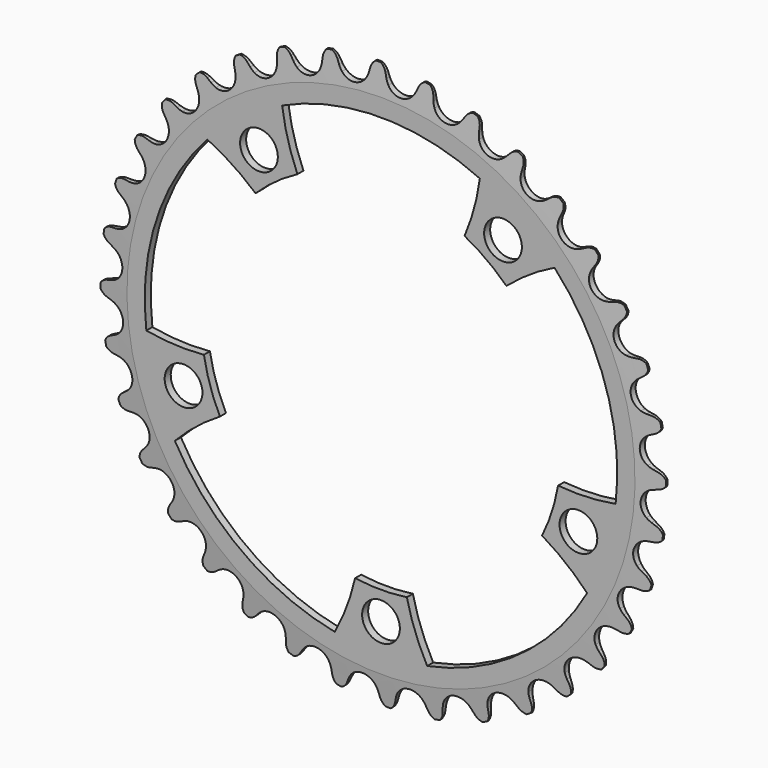
from build123d import *

# Parameters (mm, degrees)
F0_R     = 74.93
F0_R_2   = 5
F3_DEPTH = 2
F4_SIZE2 = 7.62
F4_SIZE  = 0.762
F5_DEPTH = 38.1
F6_ANGLE = 36


with BuildPart() as f3:
    # F0 (on Front) → F3 (new body)
    with BuildSketch(Plane.XZ):
        Circle(F0_R)
        with Locations((-32.328189, -44.495935)):
            Circle(F0_R_2, mode=Mode.SUBTRACT)
        with Locations((32.328189, -44.495935)):
            Circle(F0_R_2, mode=Mode.SUBTRACT)
        with BuildLine():
            ThreePointArc((42.6804, 21.074712), (45.27029, 14.709209), (46.916574, 8.037109))
            ThreePointArc((46.916574, 8.037109), (54.566073, 8.210797), (62.16801, 7.341564))
            ThreePointArc((62.16801, 7.341564), (59.536138, -19.344464), (45.979714, -42.480889))
            ThreePointArc((45.979714, -42.480889), (39.318695, -38.715808), (33.232211, -34.079028))
            ThreePointArc((33.232211, -34.079028), (27.978578, -38.509209), (22.141764, -42.13671))
            ThreePointArc((22.141764, -42.13671), (24.670776, -49.358143), (26.193213, -56.856623))
            ThreePointArc((26.193213, -56.856623), (0, -62.6), (-26.193213, -56.856623))
            ThreePointArc((-26.193213, -56.856623), (-24.670776, -49.358143), (-22.141764, -42.13671))
            ThreePointArc((-22.141764, -42.13671), (-27.978578, -38.509209), (-33.232211, -34.079028))
            ThreePointArc((-33.232211, -34.079028), (-39.318695, -38.715808), (-45.979714, -42.480889))
            ThreePointArc((-45.979714, -42.480889), (-59.536138, -19.344464), (-62.16801, 7.341564))
            ThreePointArc((-62.16801, 7.341564), (-54.566073, 8.210797), (-46.916574, 8.037109))
            ThreePointArc((-46.916574, 8.037109), (-45.27029, 14.709209), (-42.6804, 21.074712))
            ThreePointArc((-42.6804, 21.074712), (-48.971066, 25.430458), (-54.610239, 30.60199))
            ThreePointArc((-54.610239, 30.60199), (-36.795357, 50.644464), (-12.22873, 61.393959))
            ThreePointArc((-12.22873, 61.393959), (-9.052911, 54.432695), (-6.854273, 47.103916))
            ThreePointArc((-6.854273, 47.103916), (0, 47.6), (6.854273, 47.103916))
            ThreePointArc((6.854273, 47.103916), (9.052911, 54.432695), (12.22873, 61.393959))
            ThreePointArc((12.22873, 61.393959), (36.795357, 50.644464), (54.610239, 30.60199))
            ThreePointArc((54.610239, 30.60199), (48.971066, 25.430458), (42.6804, 21.074712))
        make_face(mode=Mode.SUBTRACT)
        with Locations((-52.308108, 16.995935)):
            Circle(F0_R_2, mode=Mode.SUBTRACT)
        with Locations((52.308108, 16.995935)):
            Circle(F0_R_2, mode=Mode.SUBTRACT)
        with Locations((0, 55)):
            Circle(F0_R_2, mode=Mode.SUBTRACT)
    extrude(amount=F3_DEPTH)

    # F4
    f4_edges = [f3.edges().sort_by_distance(p)[0] for p in [
        (-74.93, 0, 0),
        (-74.93, -2, 0),
    ]]
    chamfer(f4_edges, length=F4_SIZE, length2=F4_SIZE2)

    # F2 (on offset) → F5 (intersect)
    with BuildSketch(Plane.XZ.offset(25.4)):
        with BuildLine():
            Line((-3.937069, 71.758516), (-4.39561, 73.003297))
            ThreePointArc((-4.39561, 73.003297), (-5.237676, 74.260305), (-6.56109, 74.9936))
            ThreePointArc((-6.56109, 74.9936), (-7.737063, 74.041637), (-8.348059, 72.657503))
            Line((-8.348059, 72.657503), (-8.583479, 71.352007))
            ThreePointArc((-8.583479, 71.352007), (-8.767631, 70.631307), (-9.052959, 69.944351))
            ThreePointArc((-9.052959, 69.944351), (-11.952458, 67.785755), (-15.415378, 68.822485))
            ThreePointArc((-15.415378, 68.822485), (-15.918452, 69.370425), (-16.337992, 69.984678))
            Line((-16.337992, 69.984678), (-17.00572, 71.130923))
            ThreePointArc((-17.00572, 71.130923), (-18.053271, 72.222612), (-19.483914, 72.714957))
            ThreePointArc((-19.483914, 72.714957), (-20.476715, 71.573252), (-20.838076, 70.104047))
            Line((-20.838076, 70.104047), (-20.843223, 68.777505))
            ThreePointArc((-20.843223, 68.777505), (-20.899429, 68.035776), (-21.061133, 67.309709))
            ThreePointArc((-21.061133, 67.309709), (-23.541746, 64.680415), (-27.132083, 65.100064))
            ThreePointArc((-27.132083, 65.100064), (-27.722662, 65.552322), (-28.242493, 66.084391))
            Line((-28.242493, 66.084391), (-29.09912, 67.097273))
            ThreePointArc((-29.09912, 67.097273), (-30.320326, 67.99047), (-31.814729, 68.226908))
            ThreePointArc((-31.814729, 68.226908), (-32.594192, 66.930149), (-32.694939, 65.420515))
            Line((-32.694939, 65.420515), (-32.469656, 64.113232))
            ThreePointArc((-32.469656, 64.113232), (-32.396208, 63.373012), (-32.429376, 62.629896))
            ThreePointArc((-32.429376, 62.629896), (-34.41573, 59.609793), (-38.024393, 59.399611))
            ThreePointArc((-38.024393, 59.399611), (-38.684534, 59.742445), (-39.28886, 60.176163))
            Line((-39.28886, 60.176163), (-40.308358, 61.024905))
            ThreePointArc((-40.308358, 61.024905), (-41.666113, 61.692473), (-43.17887, 61.665818))
            ThreePointArc((-43.17887, 61.665818), (-43.721312, 60.253407), (-43.558383, 58.749214))
            Line((-43.558383, 58.749214), (-43.109515, 57.500911))
            ThreePointArc((-43.109515, 57.500911), (-42.908645, 56.784691), (-42.812268, 56.047105))
            ThreePointArc((-42.812268, 56.047105), (-44.24401, 52.727957), (-47.761352, 51.894331))
            ThreePointArc((-47.761352, 51.894331), (-48.470996, 52.117324), (-49.141455, 52.439513))
            Line((-49.141455, 52.439513), (-50.292847, 53.098327))
            ThreePointArc((-50.292847, 53.098327), (-51.745897, 53.519981), (-53.231043, 53.231043))
            ThreePointArc((-53.231043, 53.231043), (-53.519981, 51.745897), (-53.098327, 50.292847))
            Line((-53.098327, 50.292847), (-52.439513, 49.141455))
            ThreePointArc((-52.439513, 49.141455), (-52.117324, 48.470996), (-51.894331, 47.761352))
            ThreePointArc((-51.894331, 47.761352), (-52.727957, 44.24401), (-56.047105, 42.812268))
            ThreePointArc((-56.047105, 42.812268), (-56.784691, 42.908645), (-57.500911, 43.109515))
            Line((-57.500911, 43.109515), (-58.749214, 43.558383))
            ThreePointArc((-58.749214, 43.558383), (-60.253407, 43.721312), (-61.665818, 43.17887))
            ThreePointArc((-61.665818, 43.17887), (-61.692473, 41.666113), (-61.024905, 40.308358))
            Line((-61.024905, 40.308358), (-60.176163, 39.28886))
            ThreePointArc((-60.176163, 39.28886), (-59.742445, 38.684534), (-59.399611, 38.024393))
            ThreePointArc((-59.399611, 38.024393), (-59.609793, 34.41573), (-62.629896, 32.429376))
            ThreePointArc((-62.629896, 32.429376), (-63.373012, 32.396208), (-64.113232, 32.469656))
            Line((-64.113232, 32.469656), (-65.420515, 32.694939))
            ThreePointArc((-65.420515, 32.694939), (-66.930149, 32.594192), (-68.226908, 31.814729))
            ThreePointArc((-68.226908, 31.814729), (-67.99047, 30.320326), (-67.097273, 29.09912))
            Line((-67.097273, 29.09912), (-66.084391, 28.242493))
            ThreePointArc((-66.084391, 28.242493), (-65.552322, 27.722662), (-65.100064, 27.132083))
            ThreePointArc((-65.100064, 27.132083), (-64.680415, 23.541746), (-67.309709, 21.061133))
            ThreePointArc((-67.309709, 21.061133), (-68.035776, 20.899429), (-68.777505, 20.843223))
            Line((-68.777505, 20.843223), (-70.104047, 20.838076))
            ThreePointArc((-70.104047, 20.838076), (-71.573252, 20.476715), (-72.714957, 19.483914))
            ThreePointArc((-72.714957, 19.483914), (-72.222612, 18.053271), (-71.130923, 17.00572))
            Line((-71.130923, 17.00572), (-69.984678, 16.337992))
            ThreePointArc((-69.984678, 16.337992), (-69.370425, 15.918452), (-68.822485, 15.415378))
            ThreePointArc((-68.822485, 15.415378), (-67.785755, 11.952458), (-69.944351, 9.052959))
            ThreePointArc((-69.944351, 9.052959), (-70.631307, 8.767631), (-71.352007, 8.583479))
            Line((-71.352007, 8.583479), (-72.657503, 8.348059))
            ThreePointArc((-72.657503, 8.348059), (-74.041637, 7.737063), (-74.9936, 6.56109))
            ThreePointArc((-74.9936, 6.56109), (-74.260305, 5.237676), (-73.003297, 4.39561))
            Line((-73.003297, 4.39561), (-71.758516, 3.937069))
            ThreePointArc((-71.758516, 3.937069), (-71.080742, 3.630567), (-70.453769, 3.230285))
            ThreePointArc((-70.453769, 3.230285), (-68.83146, 0), (-70.453769, -3.230285))
            ThreePointArc((-70.453769, -3.230285), (-71.080742, -3.630567), (-71.758516, -3.937069))
            Line((-71.758516, -3.937069), (-73.003297, -4.39561))
            ThreePointArc((-73.003297, -4.39561), (-74.260305, -5.237676), (-74.9936, -6.56109))
            ThreePointArc((-74.9936, -6.56109), (-74.041637, -7.737063), (-72.657503, -8.348059))
            Line((-72.657503, -8.348059), (-71.352007, -8.583479))
            ThreePointArc((-71.352007, -8.583479), (-70.631307, -8.767631), (-69.944351, -9.052959))
            ThreePointArc((-69.944351, -9.052959), (-67.785755, -11.952458), (-68.822485, -15.415378))
            ThreePointArc((-68.822485, -15.415378), (-69.370425, -15.918452), (-69.984678, -16.337992))
            Line((-69.984678, -16.337992), (-71.130923, -17.00572))
            ThreePointArc((-71.130923, -17.00572), (-72.222612, -18.053271), (-72.714957, -19.483914))
            ThreePointArc((-72.714957, -19.483914), (-71.573252, -20.476715), (-70.104047, -20.838076))
            Line((-70.104047, -20.838076), (-68.777505, -20.843223))
            ThreePointArc((-68.777505, -20.843223), (-68.035776, -20.899429), (-67.309709, -21.061133))
            ThreePointArc((-67.309709, -21.061133), (-64.680415, -23.541746), (-65.100064, -27.132083))
            ThreePointArc((-65.100064, -27.132083), (-65.552322, -27.722662), (-66.084391, -28.242493))
            Line((-66.084391, -28.242493), (-67.097273, -29.09912))
            ThreePointArc((-67.097273, -29.09912), (-67.99047, -30.320326), (-68.226908, -31.814729))
            ThreePointArc((-68.226908, -31.814729), (-66.930149, -32.594192), (-65.420515, -32.694939))
            Line((-65.420515, -32.694939), (-64.113232, -32.469656))
            ThreePointArc((-64.113232, -32.469656), (-63.373012, -32.396208), (-62.629896, -32.429376))
            ThreePointArc((-62.629896, -32.429376), (-59.609793, -34.41573), (-59.399611, -38.024393))
            ThreePointArc((-59.399611, -38.024393), (-59.742445, -38.684534), (-60.176163, -39.28886))
            Line((-60.176163, -39.28886), (-61.024905, -40.308358))
            ThreePointArc((-61.024905, -40.308358), (-61.692473, -41.666113), (-61.665818, -43.17887))
            ThreePointArc((-61.665818, -43.17887), (-60.253407, -43.721312), (-58.749214, -43.558383))
            Line((-58.749214, -43.558383), (-57.500911, -43.109515))
            ThreePointArc((-57.500911, -43.109515), (-56.784691, -42.908645), (-56.047105, -42.812268))
            ThreePointArc((-56.047105, -42.812268), (-52.727957, -44.24401), (-51.894331, -47.761352))
            ThreePointArc((-51.894331, -47.761352), (-52.117324, -48.470996), (-52.439513, -49.141455))
            Line((-52.439513, -49.141455), (-53.098327, -50.292847))
            ThreePointArc((-53.098327, -50.292847), (-53.519981, -51.745897), (-53.231043, -53.231043))
            ThreePointArc((-53.231043, -53.231043), (-51.745897, -53.519981), (-50.292847, -53.098327))
            Line((-50.292847, -53.098327), (-49.141455, -52.439513))
            ThreePointArc((-49.141455, -52.439513), (-48.470996, -52.117324), (-47.761352, -51.894331))
            ThreePointArc((-47.761352, -51.894331), (-44.24401, -52.727957), (-42.812268, -56.047105))
            ThreePointArc((-42.812268, -56.047105), (-42.908645, -56.784691), (-43.109515, -57.500911))
            Line((-43.109515, -57.500911), (-43.558383, -58.749214))
            ThreePointArc((-43.558383, -58.749214), (-43.721312, -60.253407), (-43.17887, -61.665818))
            ThreePointArc((-43.17887, -61.665818), (-41.666113, -61.692473), (-40.308358, -61.024905))
            Line((-40.308358, -61.024905), (-39.28886, -60.176163))
            ThreePointArc((-39.28886, -60.176163), (-38.684534, -59.742445), (-38.024393, -59.399611))
            ThreePointArc((-38.024393, -59.399611), (-34.41573, -59.609793), (-32.429376, -62.629896))
            ThreePointArc((-32.429376, -62.629896), (-32.396208, -63.373012), (-32.469656, -64.113232))
            Line((-32.469656, -64.113232), (-32.694939, -65.420515))
            ThreePointArc((-32.694939, -65.420515), (-32.594192, -66.930149), (-31.814729, -68.226908))
            ThreePointArc((-31.814729, -68.226908), (-30.320326, -67.99047), (-29.09912, -67.097273))
            Line((-29.09912, -67.097273), (-28.242493, -66.084391))
            ThreePointArc((-28.242493, -66.084391), (-27.722662, -65.552322), (-27.132083, -65.100064))
            ThreePointArc((-27.132083, -65.100064), (-23.541746, -64.680415), (-21.061133, -67.309709))
            ThreePointArc((-21.061133, -67.309709), (-20.899429, -68.035776), (-20.843223, -68.777505))
            Line((-20.843223, -68.777505), (-20.838076, -70.104047))
            ThreePointArc((-20.838076, -70.104047), (-20.476715, -71.573252), (-19.483914, -72.714957))
            ThreePointArc((-19.483914, -72.714957), (-18.053271, -72.222612), (-17.00572, -71.130923))
            Line((-17.00572, -71.130923), (-16.337992, -69.984678))
            ThreePointArc((-16.337992, -69.984678), (-15.918452, -69.370425), (-15.415378, -68.822485))
            ThreePointArc((-15.415378, -68.822485), (-11.952458, -67.785755), (-9.052959, -69.944351))
            ThreePointArc((-9.052959, -69.944351), (-8.767631, -70.631307), (-8.583479, -71.352007))
            Line((-8.583479, -71.352007), (-8.348059, -72.657503))
            ThreePointArc((-8.348059, -72.657503), (-7.737063, -74.041637), (-6.56109, -74.9936))
            ThreePointArc((-6.56109, -74.9936), (-5.237676, -74.260305), (-4.39561, -73.003297))
            Line((-4.39561, -73.003297), (-3.937069, -71.758516))
            ThreePointArc((-3.937069, -71.758516), (-3.630567, -71.080742), (-3.230285, -70.453769))
            ThreePointArc((-3.230285, -70.453769), (0, -68.83146), (3.230285, -70.453769))
            ThreePointArc((3.230285, -70.453769), (3.630567, -71.080742), (3.937069, -71.758516))
            Line((3.937069, -71.758516), (4.39561, -73.003297))
            ThreePointArc((4.39561, -73.003297), (5.237676, -74.260305), (6.56109, -74.9936))
            ThreePointArc((6.56109, -74.9936), (7.737063, -74.041637), (8.348059, -72.657503))
            Line((8.348059, -72.657503), (8.583479, -71.352007))
            ThreePointArc((8.583479, -71.352007), (8.767631, -70.631307), (9.052959, -69.944351))
            ThreePointArc((9.052959, -69.944351), (11.952458, -67.785755), (15.415378, -68.822485))
            ThreePointArc((15.415378, -68.822485), (15.918452, -69.370425), (16.337992, -69.984678))
            Line((16.337992, -69.984678), (17.00572, -71.130923))
            ThreePointArc((17.00572, -71.130923), (18.053271, -72.222612), (19.483914, -72.714957))
            ThreePointArc((19.483914, -72.714957), (20.476715, -71.573252), (20.838076, -70.104047))
            Line((20.838076, -70.104047), (20.843223, -68.777505))
            ThreePointArc((20.843223, -68.777505), (20.899429, -68.035776), (21.061133, -67.309709))
            ThreePointArc((21.061133, -67.309709), (23.541746, -64.680415), (27.132083, -65.100064))
            ThreePointArc((27.132083, -65.100064), (27.722662, -65.552322), (28.242493, -66.084391))
            Line((28.242493, -66.084391), (29.09912, -67.097273))
            ThreePointArc((29.09912, -67.097273), (30.320326, -67.99047), (31.814729, -68.226908))
            ThreePointArc((31.814729, -68.226908), (32.594192, -66.930149), (32.694939, -65.420515))
            Line((32.694939, -65.420515), (32.469656, -64.113232))
            ThreePointArc((32.469656, -64.113232), (32.396208, -63.373012), (32.429376, -62.629896))
            ThreePointArc((32.429376, -62.629896), (34.41573, -59.609793), (38.024393, -59.399611))
            ThreePointArc((38.024393, -59.399611), (38.684534, -59.742445), (39.28886, -60.176163))
            Line((39.28886, -60.176163), (40.308358, -61.024905))
            ThreePointArc((40.308358, -61.024905), (41.666113, -61.692473), (43.17887, -61.665818))
            ThreePointArc((43.17887, -61.665818), (43.721312, -60.253407), (43.558383, -58.749214))
            Line((43.558383, -58.749214), (43.109515, -57.500911))
            ThreePointArc((43.109515, -57.500911), (42.908645, -56.784691), (42.812268, -56.047105))
            ThreePointArc((42.812268, -56.047105), (44.24401, -52.727957), (47.761352, -51.894331))
            ThreePointArc((47.761352, -51.894331), (48.470996, -52.117324), (49.141455, -52.439513))
            Line((49.141455, -52.439513), (50.292847, -53.098327))
            ThreePointArc((50.292847, -53.098327), (51.745897, -53.519981), (53.231043, -53.231043))
            ThreePointArc((53.231043, -53.231043), (53.519981, -51.745897), (53.098327, -50.292847))
            Line((53.098327, -50.292847), (52.439513, -49.141455))
            ThreePointArc((52.439513, -49.141455), (52.117324, -48.470996), (51.894331, -47.761352))
            ThreePointArc((51.894331, -47.761352), (52.727957, -44.24401), (56.047105, -42.812268))
            ThreePointArc((56.047105, -42.812268), (56.784691, -42.908645), (57.500911, -43.109515))
            Line((57.500911, -43.109515), (58.749214, -43.558383))
            ThreePointArc((58.749214, -43.558383), (60.253407, -43.721312), (61.665818, -43.17887))
            ThreePointArc((61.665818, -43.17887), (61.692473, -41.666113), (61.024905, -40.308358))
            Line((61.024905, -40.308358), (60.176163, -39.28886))
            ThreePointArc((60.176163, -39.28886), (59.742445, -38.684534), (59.399611, -38.024393))
            ThreePointArc((59.399611, -38.024393), (59.609793, -34.41573), (62.629896, -32.429376))
            ThreePointArc((62.629896, -32.429376), (63.373012, -32.396208), (64.113232, -32.469656))
            Line((64.113232, -32.469656), (65.420515, -32.694939))
            ThreePointArc((65.420515, -32.694939), (66.930149, -32.594192), (68.226908, -31.814729))
            ThreePointArc((68.226908, -31.814729), (67.99047, -30.320326), (67.097273, -29.09912))
            Line((67.097273, -29.09912), (66.084391, -28.242493))
            ThreePointArc((66.084391, -28.242493), (65.552322, -27.722662), (65.100064, -27.132083))
            ThreePointArc((65.100064, -27.132083), (64.680415, -23.541746), (67.309709, -21.061133))
            ThreePointArc((67.309709, -21.061133), (68.035776, -20.899429), (68.777505, -20.843223))
            Line((68.777505, -20.843223), (70.104047, -20.838076))
            ThreePointArc((70.104047, -20.838076), (71.573252, -20.476715), (72.714957, -19.483914))
            ThreePointArc((72.714957, -19.483914), (72.222612, -18.053271), (71.130923, -17.00572))
            Line((71.130923, -17.00572), (69.984678, -16.337992))
            ThreePointArc((69.984678, -16.337992), (69.370425, -15.918452), (68.822485, -15.415378))
            ThreePointArc((68.822485, -15.415378), (67.785755, -11.952458), (69.944351, -9.052959))
            ThreePointArc((69.944351, -9.052959), (70.631307, -8.767631), (71.352007, -8.583479))
            Line((71.352007, -8.583479), (72.657503, -8.348059))
            ThreePointArc((72.657503, -8.348059), (74.041637, -7.737063), (74.9936, -6.56109))
            ThreePointArc((74.9936, -6.56109), (74.260305, -5.237676), (73.003297, -4.39561))
            Line((73.003297, -4.39561), (71.758516, -3.937069))
            ThreePointArc((71.758516, -3.937069), (71.080742, -3.630567), (70.453769, -3.230285))
            ThreePointArc((70.453769, -3.230285), (68.83146, 0), (70.453769, 3.230285))
            ThreePointArc((70.453769, 3.230285), (71.080742, 3.630567), (71.758516, 3.937069))
            Line((71.758516, 3.937069), (73.003297, 4.39561))
            ThreePointArc((73.003297, 4.39561), (74.260305, 5.237676), (74.9936, 6.56109))
            ThreePointArc((74.9936, 6.56109), (74.041637, 7.737063), (72.657503, 8.348059))
            Line((72.657503, 8.348059), (71.352007, 8.583479))
            ThreePointArc((71.352007, 8.583479), (70.631307, 8.767631), (69.944351, 9.052959))
            ThreePointArc((69.944351, 9.052959), (67.785755, 11.952458), (68.822485, 15.415378))
            ThreePointArc((68.822485, 15.415378), (69.370425, 15.918452), (69.984678, 16.337992))
            Line((69.984678, 16.337992), (71.130923, 17.00572))
            ThreePointArc((71.130923, 17.00572), (72.222612, 18.053271), (72.714957, 19.483914))
            ThreePointArc((72.714957, 19.483914), (71.573252, 20.476715), (70.104047, 20.838076))
            Line((70.104047, 20.838076), (68.777505, 20.843223))
            ThreePointArc((68.777505, 20.843223), (68.035776, 20.899429), (67.309709, 21.061133))
            ThreePointArc((67.309709, 21.061133), (64.680415, 23.541746), (65.100064, 27.132083))
            ThreePointArc((65.100064, 27.132083), (65.552322, 27.722662), (66.084391, 28.242493))
            Line((66.084391, 28.242493), (67.097273, 29.09912))
            ThreePointArc((67.097273, 29.09912), (67.99047, 30.320326), (68.226908, 31.814729))
            ThreePointArc((68.226908, 31.814729), (66.930149, 32.594192), (65.420515, 32.694939))
            Line((65.420515, 32.694939), (64.113232, 32.469656))
            ThreePointArc((64.113232, 32.469656), (63.373012, 32.396208), (62.629896, 32.429376))
            ThreePointArc((62.629896, 32.429376), (59.609793, 34.41573), (59.399611, 38.024393))
            ThreePointArc((59.399611, 38.024393), (59.742445, 38.684534), (60.176163, 39.28886))
            Line((60.176163, 39.28886), (61.024905, 40.308358))
            ThreePointArc((61.024905, 40.308358), (61.692473, 41.666113), (61.665818, 43.17887))
            ThreePointArc((61.665818, 43.17887), (60.253407, 43.721312), (58.749214, 43.558383))
            Line((58.749214, 43.558383), (57.500911, 43.109515))
            ThreePointArc((57.500911, 43.109515), (56.784691, 42.908645), (56.047105, 42.812268))
            ThreePointArc((56.047105, 42.812268), (52.727957, 44.24401), (51.894331, 47.761352))
            ThreePointArc((51.894331, 47.761352), (52.117324, 48.470996), (52.439513, 49.141455))
            Line((52.439513, 49.141455), (53.098327, 50.292847))
            ThreePointArc((53.098327, 50.292847), (53.519981, 51.745897), (53.231043, 53.231043))
            ThreePointArc((53.231043, 53.231043), (51.745897, 53.519981), (50.292847, 53.098327))
            Line((50.292847, 53.098327), (49.141455, 52.439513))
            ThreePointArc((49.141455, 52.439513), (48.470996, 52.117324), (47.761352, 51.894331))
            ThreePointArc((47.761352, 51.894331), (44.24401, 52.727957), (42.812268, 56.047105))
            ThreePointArc((42.812268, 56.047105), (42.908645, 56.784691), (43.109515, 57.500911))
            Line((43.109515, 57.500911), (43.558383, 58.749214))
            ThreePointArc((43.558383, 58.749214), (43.721312, 60.253407), (43.17887, 61.665818))
            ThreePointArc((43.17887, 61.665818), (41.666113, 61.692473), (40.308358, 61.024905))
            Line((40.308358, 61.024905), (39.28886, 60.176163))
            ThreePointArc((39.28886, 60.176163), (38.684534, 59.742445), (38.024393, 59.399611))
            ThreePointArc((38.024393, 59.399611), (34.41573, 59.609793), (32.429376, 62.629896))
            ThreePointArc((32.429376, 62.629896), (32.396208, 63.373012), (32.469656, 64.113232))
            Line((32.469656, 64.113232), (32.694939, 65.420515))
            ThreePointArc((32.694939, 65.420515), (32.594192, 66.930149), (31.814729, 68.226908))
            ThreePointArc((31.814729, 68.226908), (30.320326, 67.99047), (29.09912, 67.097273))
            Line((29.09912, 67.097273), (28.242493, 66.084391))
            ThreePointArc((28.242493, 66.084391), (27.722662, 65.552322), (27.132083, 65.100064))
            ThreePointArc((27.132083, 65.100064), (23.541746, 64.680415), (21.061133, 67.309709))
            ThreePointArc((21.061133, 67.309709), (20.899429, 68.035776), (20.843223, 68.777505))
            Line((20.843223, 68.777505), (20.838076, 70.104047))
            ThreePointArc((20.838076, 70.104047), (20.476715, 71.573252), (19.483914, 72.714957))
            ThreePointArc((19.483914, 72.714957), (18.053271, 72.222612), (17.00572, 71.130923))
            Line((17.00572, 71.130923), (16.337992, 69.984678))
            ThreePointArc((16.337992, 69.984678), (15.918452, 69.370425), (15.415378, 68.822485))
            ThreePointArc((15.415378, 68.822485), (11.952458, 67.785755), (9.052959, 69.944351))
            ThreePointArc((9.052959, 69.944351), (8.767631, 70.631307), (8.583479, 71.352007))
            Line((8.583479, 71.352007), (8.348059, 72.657503))
            ThreePointArc((8.348059, 72.657503), (7.737063, 74.041637), (6.56109, 74.9936))
            ThreePointArc((6.56109, 74.9936), (5.237676, 74.260305), (4.39561, 73.003297))
            Line((4.39561, 73.003297), (3.937069, 71.758516))
            ThreePointArc((3.937069, 71.758516), (3.630567, 71.080742), (3.230285, 70.453769))
            ThreePointArc((3.230285, 70.453769), (0, 68.83146), (-3.230285, 70.453769))
            ThreePointArc((-3.230285, 70.453769), (-3.630567, 71.080742), (-3.937069, 71.758516))
        make_face()
    extrude(amount=-F5_DEPTH, mode=Mode.INTERSECT)


with BuildPart() as f3_1:
    # F6: moved
    add(f3.part.rotate(Axis((0, 0, 55), (0, -1, 0)), F6_ANGLE))


solid = f3_1.part
